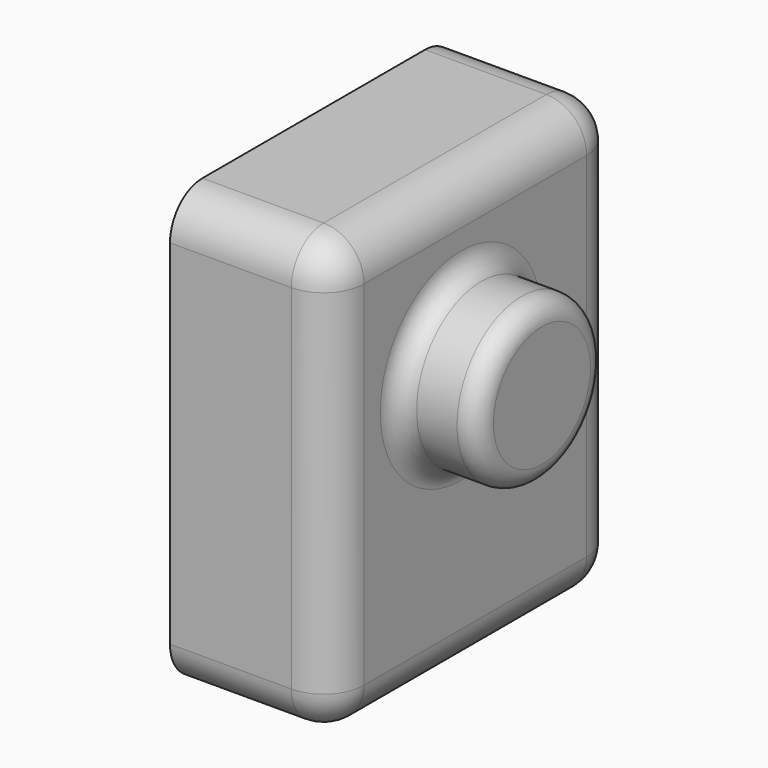
from build123d import *

# Parameters (mm, degrees)
F0_W     = 50.8
F0_H     = 112.817927
F1_DEPTH = 136.387214
F2_R     = 25.4
F3_DEPTH = 25.4
F4_R     = 6.35
F5_R     = 12.7
F6_R     = 12.7


with BuildPart() as f1:
    # F0 (on Top) → F1 (new body)
    with BuildSketch(Plane.XY):
        with Locations((25.4, 56.408963)):
            Rectangle(F0_W, F0_H)
    extrude(amount=F1_DEPTH)

    # F2 (on face) → F3 (join)
    with BuildSketch(Plane.YZ.offset(50.8)):
        with Locations((50.8, 85.587214)):
            Circle(F2_R)
    extrude(amount=F3_DEPTH)

    # F4
    f4_edges = [f1.edges().sort_by_distance(p)[0] for p in [
        (76.2, 25.4, 85.587214),
        (50.8, 25.4, 85.587214),
    ]]
    fillet(f4_edges, radius=F4_R)

    # F5
    f5_edges = [f1.edges().sort_by_distance(p)[0] for p in [
        (25.4, 112.817927, 136.387214),
        (25.4, 112.817927, 0),
        (25.4, 0, 0),
        (25.4, 0, 136.387214),
    ]]
    fillet(f5_edges, radius=F5_R)

    # F6
    f6_edges = [f1.edges().sort_by_distance(p)[0] for p in [
        (50.8, 0, 68.193607),
    ]]
    fillet(f6_edges, radius=F6_R)


solid = f1.part
